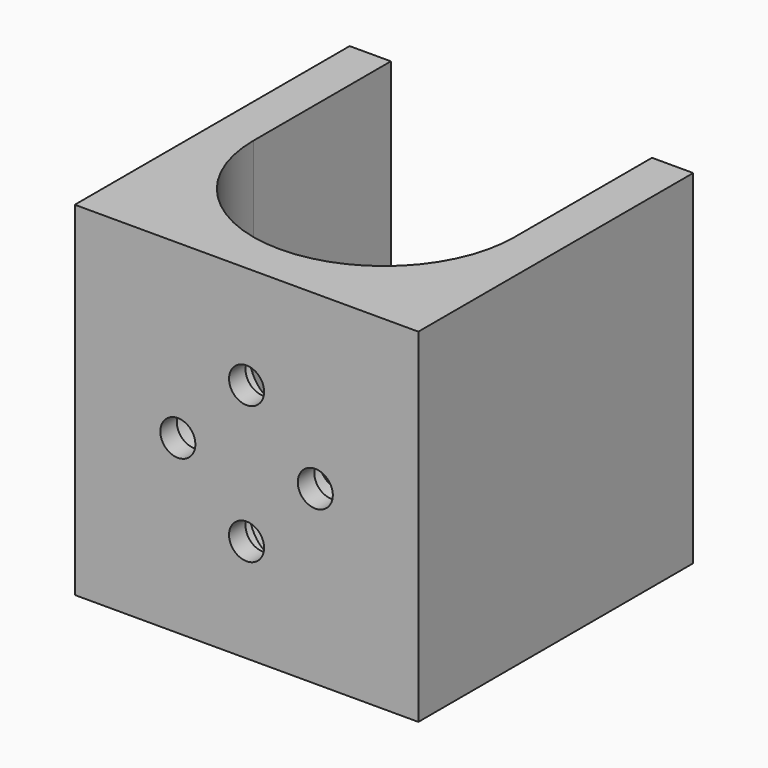
from build123d import *

# Parameters (mm, degrees)
SKETCH_W        = 50
SKETCH_H        = 50
PAD_DEPTH       = 50
SKETCH001_R     = 19
POCKET_DEPTH    = 45
SKETCH002_W     = 50
SKETCH002_H     = 25
POCKET001_DEPTH = 45
SKETCH003_R     = 10.5
SKETCH003_R_2   = 1.5
POCKET002_DEPTH = 5.001
SKETCH004_W     = 6
SKETCH004_H     = 45
PAD001_DEPTH    = 25
SKETCH005_R     = 5
POCKET003_DEPTH = 12
SKETCH006_R     = 2.55
POCKET004_DEPTH = 3.001


with BuildPart() as part:
    # Sketch → Pad (new body)
    with BuildSketch(Plane.XY):
        Rectangle(SKETCH_W, SKETCH_H)
    extrude(amount=PAD_DEPTH)

    # Sketch001 (on DatumPlane) → Pocket (cut)
    with BuildSketch(Plane.XY.offset(50)):
        Circle(SKETCH001_R)
    extrude(amount=-POCKET_DEPTH, mode=Mode.SUBTRACT)

    # Sketch002 (on DatumPlane) → Pocket001 (cut)
    with BuildSketch(Plane.XY.offset(50)):
        with Locations((0, 12.5)):
            Rectangle(SKETCH002_W, SKETCH002_H)
    extrude(amount=-POCKET001_DEPTH, mode=Mode.SUBTRACT)

    # Sketch003 (on DatumPlane) → Pocket002 (cut, through all)
    with BuildSketch(Plane.XY.offset(5)):
        Circle(SKETCH003_R)
        with Locations((0, -15)):
            Circle(SKETCH003_R_2)
        with Locations((12.990381, 7.5)):
            Circle(SKETCH003_R_2)
        with Locations((-12.99, 7.5)):
            Circle(SKETCH003_R_2)
    extrude(amount=-POCKET002_DEPTH, mode=Mode.SUBTRACT)

    # Sketch004 (on DatumPlane) → Pad001 (join)
    with BuildSketch(Plane(origin=(0, 0, 0), x_dir=(-1, 0, 0), z_dir=(0, 1, 0))):
        with Locations((-22, 27.5)):
            Rectangle(SKETCH004_W, SKETCH004_H)
        with Locations((22, 27.5)):
            Rectangle(SKETCH004_W, SKETCH004_H)
    extrude(amount=PAD001_DEPTH)

    # Sketch005 (on DatumPlane) → Pocket003 (cut)
    with BuildSketch(Plane(origin=(0, -10, 0), x_dir=(-1, 0, 0), z_dir=(0, 1, 0))):
        with Locations((0, 35)):
            Circle(SKETCH005_R)
        with Locations((0, 15)):
            Circle(SKETCH005_R)
        with Locations((10, 25)):
            Circle(SKETCH005_R)
        with Locations((-10, 25)):
            Circle(SKETCH005_R)
    extrude(amount=-POCKET003_DEPTH, mode=Mode.SUBTRACT)

    # Sketch006 (on DatumPlane) → Pocket004 (cut, through all)
    with BuildSketch(Plane(origin=(0, -22, 0), x_dir=(-1, 0, 0), z_dir=(0, 1, 0))):
        with Locations((0, 15)):
            Circle(SKETCH006_R)
        with Locations((10, 25)):
            Circle(SKETCH006_R)
        with Locations((0, 35)):
            Circle(SKETCH006_R)
        with Locations((-10, 25)):
            Circle(SKETCH006_R)
    extrude(amount=-POCKET004_DEPTH, mode=Mode.SUBTRACT)


solid = part.part
